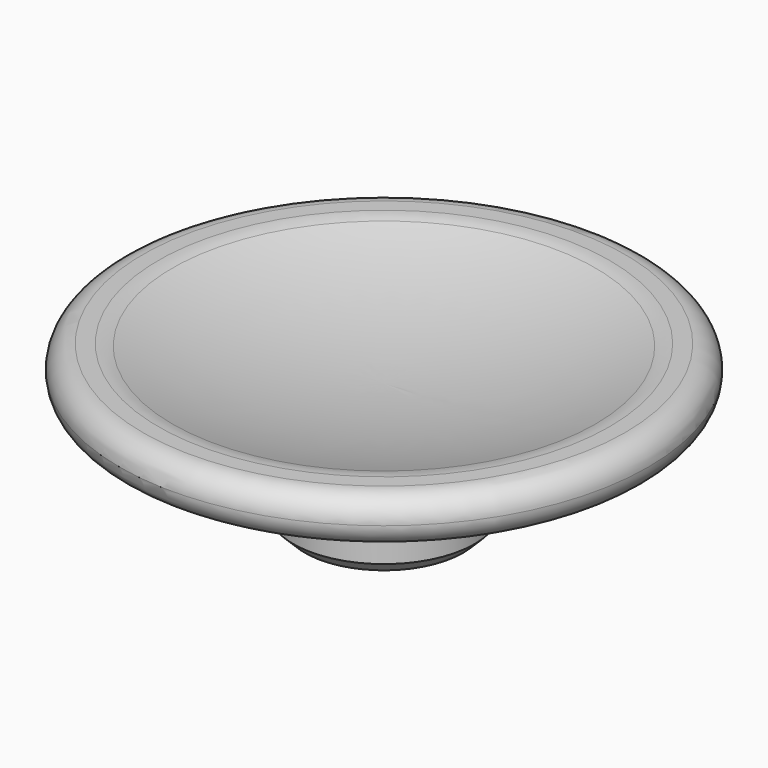
from build123d import *

# Parameters (mm, degrees)
F2_SIZE = 0.5


with BuildPart() as f1:
    # F0 (on Front) → F1 (revolve)
    with BuildSketch(Plane.XZ):
        with BuildLine():
            Line((0, 5.365184), (0, 0))
            Line((0, 0), (3.95, 0))
            Line((3.95, 0), (3.95, 3.4))
            Line((3.95, 3.4), (7, 3.4))
            Line((7, 3.4), (7, 3.9))
            ThreePointArc((7, 3.9), (7.292893, 4.607107), (8, 4.9))
            Line((8, 4.9), (10.5, 4.9))
            ThreePointArc((10.5, 4.9), (11.207107, 5.192893), (11.5, 5.9))
            ThreePointArc((11.5, 5.9), (11.207107, 6.607107), (10.5, 6.9))
            Line((10.5, 6.9), (9.817803, 6.9))
            ThreePointArc((9.817803, 6.9), (9.508896, 6.876), (9.207402, 6.804576))
            ThreePointArc((9.207402, 6.804576), (4.659616, 5.727204), (0, 5.365184))
        make_face()
    revolve(axis=Axis((0, 0, 2.682592), (0, 0, -1)))

    # F2
    f2_edges = [f1.edges().sort_by_distance(p)[0] for p in [
        (-3.95, 0, 0),
    ]]
    chamfer(f2_edges, length=F2_SIZE)


solid = f1.part
